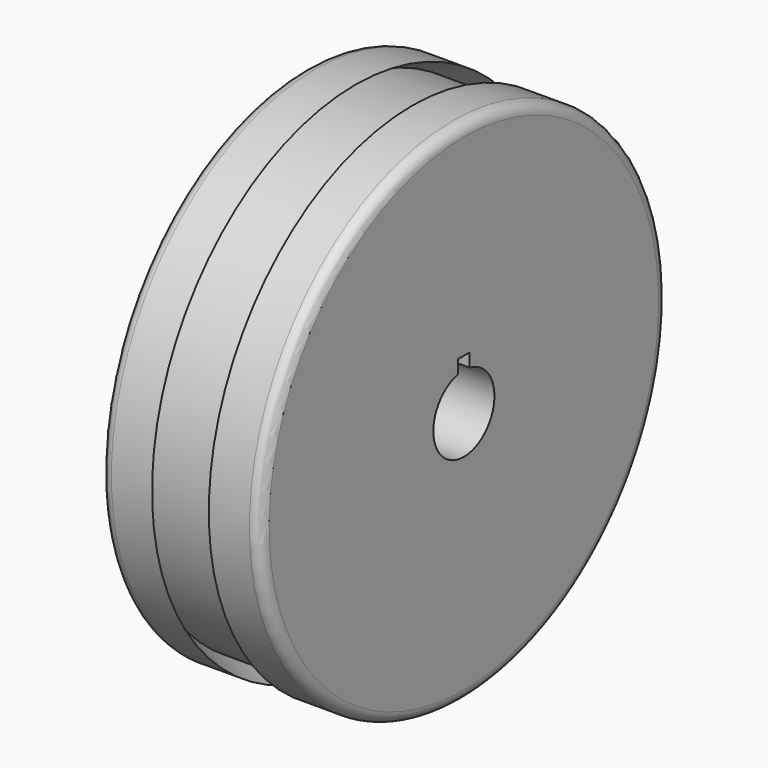
from build123d import *

# Parameters (mm, degrees)
F2_R     = 6
F4_DEPTH = 88


with BuildPart() as f1:
    # F0 (on Front) → F1 (revolve)
    with BuildSketch(Plane.XZ):
        Polygon((-44, 140), (-44, 0), (44, 0), (44, 140), (15.6125054301, 140), (30, 133), (-30, 133), (-15.6125054301, 140), align=None)
    revolve(axis=Axis((0, 0, 0), (1, 0, 0)))

    # F2
    f2_edges = [f1.edges().sort_by_distance(p)[0] for p in [
        (-44, 0, -140),
        (44, 0, -140),
    ]]
    fillet(f2_edges, radius=F2_R)

    # F3 (on face) → F4 (cut)
    with BuildSketch(Plane(origin=(-44, 0, 0), x_dir=(0, -1, 0), z_dir=(-1, 0, 0))):
        with BuildLine():
            ThreePointArc((-4, 20.6155281281), (-13.3603892159, -16.201851746), (21, 0))
            ThreePointArc((21, 0), (16.201851746, 13.3603892159), (4, 20.6155281281))
            Line((4, 20.6155281281), (4, 16))
            Line((4, 16), (-4, 16))
            Line((-4, 16), (-4, 20.6155281281))
        make_face()
        with BuildLine():
            Line((4, 16), (4, 20.6155281281))
            ThreePointArc((4, 20.6155281281), (0, 21), (-4, 20.6155281281))
            Line((-4, 20.6155281281), (-4, 16))
            Line((-4, 16), (4, 16))
        make_face()
        with BuildLine():
            ThreePointArc((-4, 20.6155281281), (0, 21), (4, 20.6155281281))
            Line((4, 20.6155281281), (4, 28))
            Line((4, 28), (-4, 28))
            Line((-4, 28), (-4, 20.6155281281))
        make_face()
    extrude(amount=-F4_DEPTH, mode=Mode.SUBTRACT)


solid = f1.part
